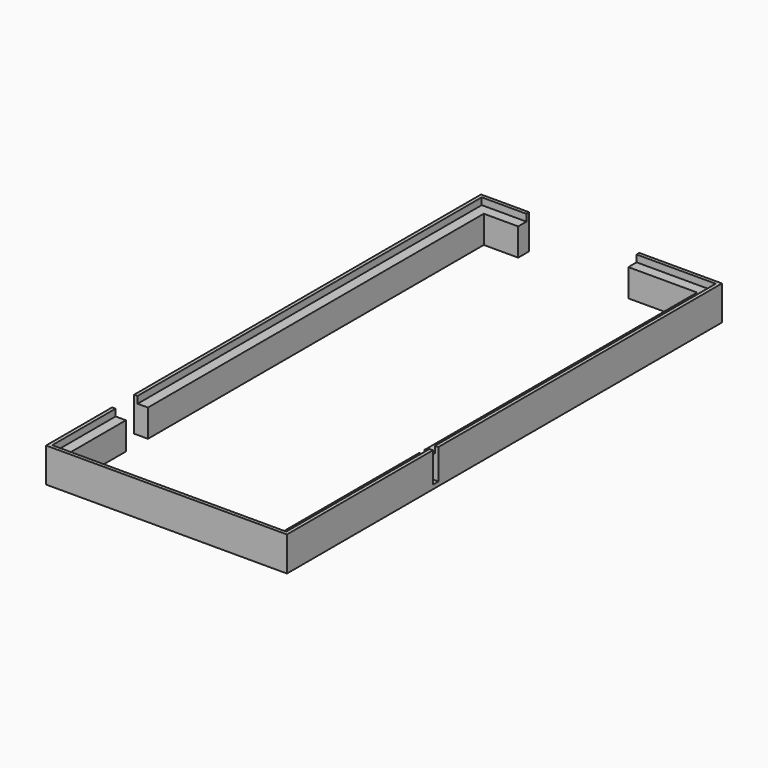
from build123d import *

# Parameters (mm, degrees)
SKETCH010_W           = 4
SKETCH010_H           = 5
EXTRUDE008_DEPTH      = 4
SKETCH009_W           = 1
SKETCH009_H           = 6
EXTRUDE007_DEPTH      = 1
EXTRUDE007_DEPTH_BACK = 3


with BuildPart() as led004:
    # Sketch010 → Extrude008 (new body)
    with BuildSketch(Plane(origin=(-3, 0, 0), x_dir=(0, -1, 0), z_dir=(-1, 0, 0))):
        with Locations((-5, 2.5)):
            Rectangle(SKETCH010_W, SKETCH010_H)
    extrude(amount=-EXTRUDE008_DEPTH)


with BuildPart() as compound:
    # Sketch009 → Extrude007 (new body, two sides)
    with BuildSketch(Plane.YZ.offset(33)) as extrude007_sk:
        with Locations((18, 3.6)):
            Rectangle(SKETCH009_W, SKETCH009_H)
    extrude(amount=EXTRUDE007_DEPTH)
    extrude(extrude007_sk.sketch, amount=-EXTRUDE007_DEPTH_BACK)

    # Compound: union led004
    add(led004.part)


with BuildPart() as cut:
    # Sweep: sweep along a path in Sketch003
    with BuildLine(Plane.XY) as sweep_path:
        Line((5, 68), (0, 68))
        Line((0, 68), (0, -7))
        Line((0, -7), (31, -7))
        Line((31, -7), (31, 68))
        Line((31, 68), (21, 68))
    # Sketch002 → Sweep (sweep)
    with BuildSketch(Plane.YZ.offset(16)):
        Polygon((-7, 0), (-7, 4), (-8.5, 4), (-8.5, 5), (-9, 5), (-9, 0), align=None)
    sweep(path=sweep_path.line, transition=Transition.RIGHT)

    # Cut: cut Compound
    add(compound.part, mode=Mode.SUBTRACT)


solid = cut.part
